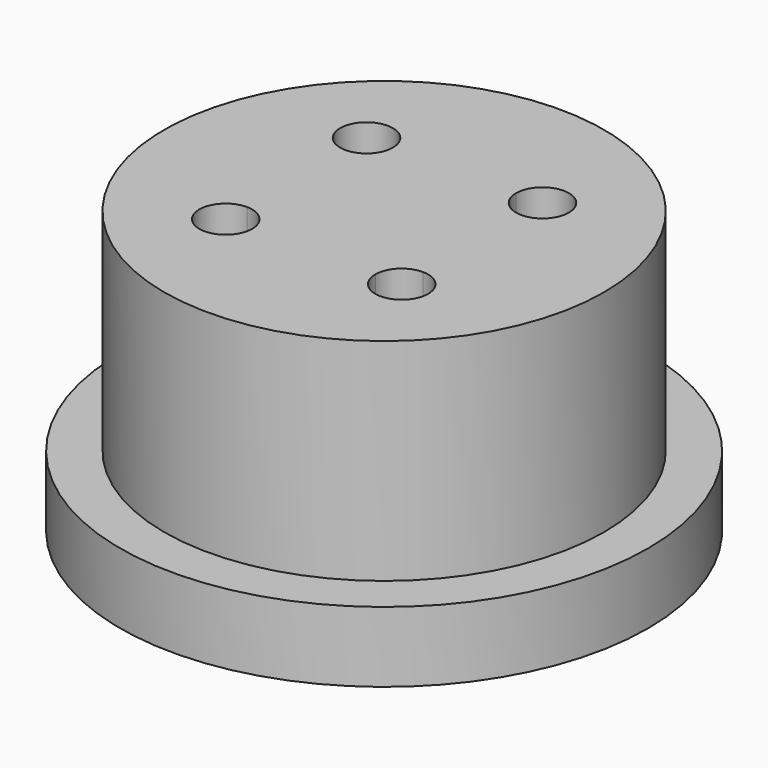
from build123d import *

# Parameters (mm, degrees)
F0_R     = 12.5
F1_DEPTH = 16
F0_R_2   = 15
F2_DEPTH = 4


with BuildPart() as f1:
    # F0 (on Top) → F1 (new body)
    with BuildSketch(Plane.XY):
        Circle(F0_R)
        with BuildLine():
            Line((3.5, -5), (-3.5, -5))
            ThreePointArc((-3.5, -5), (-6.0606601718, -6.0606601718), (-5, -3.5))
            Line((-5, -3.5), (-5, 3.5))
            ThreePointArc((-5, 3.5), (-6.0606601718, 6.0606601718), (-3.5, 5))
            Line((-3.5, 5), (3.5, 5))
            ThreePointArc((3.5, 5), (5, 6.5), (6.5, 5))
            ThreePointArc((6.5, 5), (6.0606601718, 3.9393398282), (5, 3.5))
            Line((5, 3.5), (5, -3.5))
            ThreePointArc((5, -3.5), (6.0606601718, -3.9393398282), (6.5, -5))
            ThreePointArc((6.5, -5), (5, -6.5), (3.5, -5))
        make_face(mode=Mode.SUBTRACT)
        with BuildLine():
            ThreePointArc((-5, -3.5), (-3.9393398282, -3.9393398282), (-3.5, -5))
            Line((-3.5, -5), (3.5, -5))
            ThreePointArc((3.5, -5), (3.9393398282, -3.9393398282), (5, -3.5))
            Line((5, -3.5), (5, 3.5))
            ThreePointArc((5, 3.5), (3.9393398282, 3.9393398282), (3.5, 5))
            Line((3.5, 5), (-3.5, 5))
            ThreePointArc((-3.5, 5), (-3.9393398282, 3.9393398282), (-5, 3.5))
            Line((-5, 3.5), (-5, -3.5))
        make_face()
    extrude(amount=F1_DEPTH)

    # F0 (on Top) → F2 (join)
    with BuildSketch(Plane.XY):
        Circle(F0_R_2)
        Circle(F0_R, mode=Mode.SUBTRACT)
    extrude(amount=F2_DEPTH)


solid = f1.part
